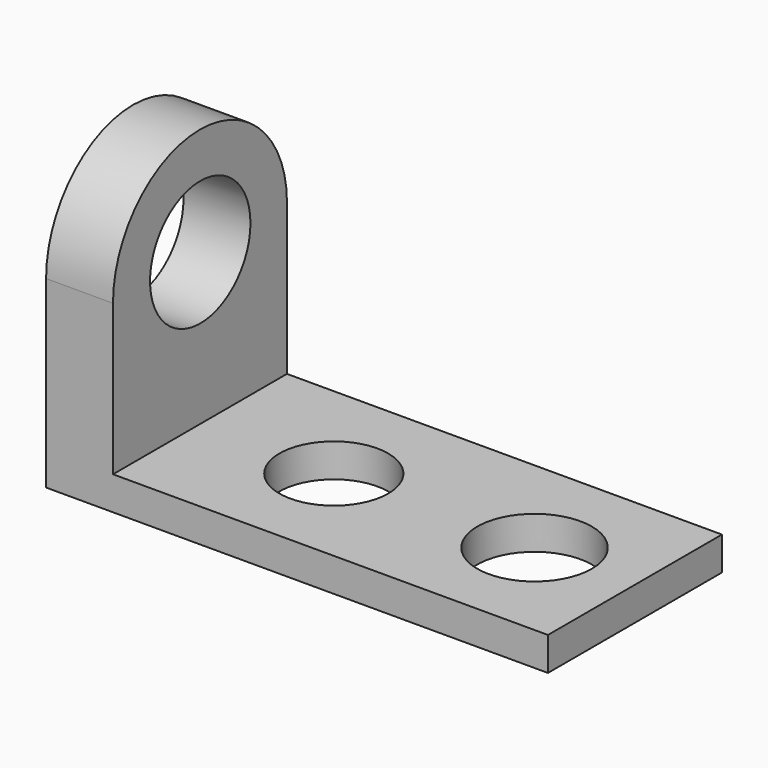
from build123d import *

# Parameters (mm, degrees)
F1_DEPTH = 82.55
F2_W     = 25.4
F2_H     = 69.85
F3_DEPTH = 82.55
F4_R     = 20.6375
F4_R_2   = 21.729164
F5_DEPTH = 25.4
F7_DEPTH = 25.4
F8_R     = 23.8125
F9_DEPTH = 25.4


with BuildPart() as f1:
    # F0 (on Front) → F1 (new body)
    with BuildSketch(Plane.XZ):
        Polygon((0, 57.15), (0, 0), (190.5, 0), (190.5, 12.7), (25.4, 12.7), (25.4, 57.15), align=None)
    extrude(amount=F1_DEPTH)

    # F2 (on face) → F3 (join)
    with BuildSketch(Plane.XZ.offset(82.55)):
        with Locations((12.7, 92.075)):
            Rectangle(F2_W, F2_H)
    extrude(amount=-F3_DEPTH)

    # F4 (on face) → F5 (cut)
    with BuildSketch(Plane.XY.offset(12.7)):
        with Locations((76.2, -41.275)):
            Circle(F4_R)
        with Locations((152.4, -41.275)):
            Circle(F4_R_2)
    extrude(amount=-F5_DEPTH, mode=Mode.SUBTRACT)

    # F6 (on face) → F7 (cut)
    with BuildSketch(Plane.YZ.offset(25.4)):
        with BuildLine():
            ThreePointArc((-82.55, 69.85), (-41.275, 111.125), (0, 69.85))
            Line((0, 69.85), (0, 127))
            Line((0, 127), (-82.55, 127))
            Line((-82.55, 127), (-82.55, 69.85))
        make_face()
    extrude(amount=-F7_DEPTH, mode=Mode.SUBTRACT)

    # F8 (on face) → F9 (cut)
    with BuildSketch(Plane.YZ.offset(25.4)):
        with Locations((-41.145787, 70.089974)):
            Circle(F8_R)
    extrude(amount=-F9_DEPTH, mode=Mode.SUBTRACT)


solid = f1.part
